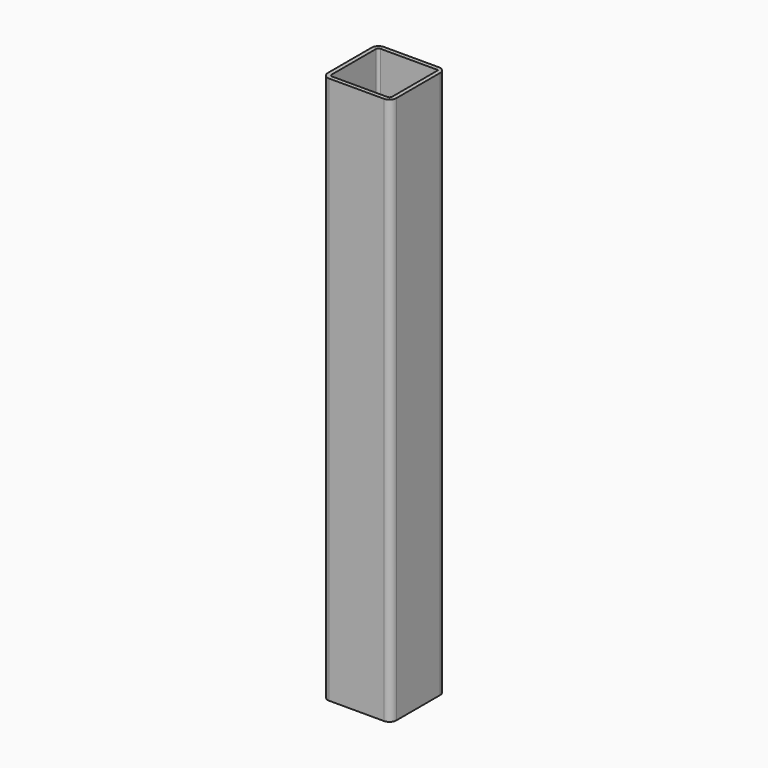
from build123d import *

# Parameters (mm, degrees)
F1_DEPTH = 200


with BuildPart() as f1:
    # F0 (on Top) → F1 (new body)
    with BuildSketch(Plane.XY):
        with BuildLine():
            ThreePointArc((12.5, 10), (11.767767, 11.767767), (10, 12.5))
            Line((10, 12.5), (-10, 12.5))
            ThreePointArc((-10, 12.5), (-11.767767, 11.767767), (-12.5, 10))
            Line((-12.5, 10), (-12.5, -10))
            ThreePointArc((-12.5, -10), (-11.767767, -11.767767), (-10, -12.5))
            Line((-10, -12.5), (10, -12.5))
            ThreePointArc((10, -12.5), (11.767767, -11.767767), (12.5, -10))
            Line((12.5, -10), (12.5, 10))
        make_face()
        with BuildLine():
            ThreePointArc((11, -10), (10.707107, -10.707107), (10, -11))
            Line((10, -11), (-10, -11))
            ThreePointArc((-10, -11), (-10.707107, -10.707107), (-11, -10))
            Line((-11, -10), (-11, 10))
            ThreePointArc((-11, 10), (-10.707107, 10.707107), (-10, 11))
            Line((-10, 11), (11, 11))
            Line((11, 11), (11, -10))
        make_face(mode=Mode.SUBTRACT)
    extrude(amount=F1_DEPTH)


solid = f1.part
